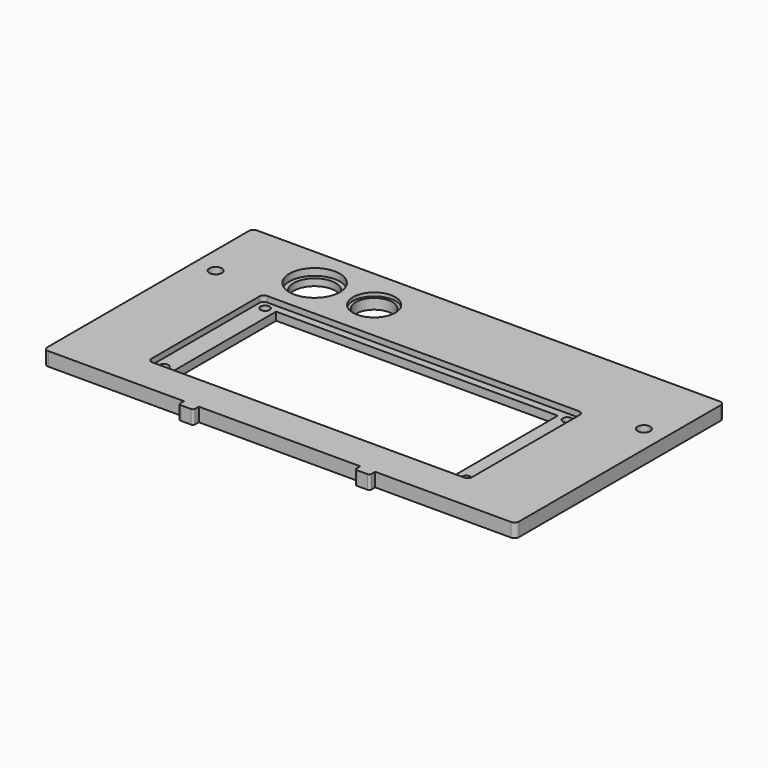
from build123d import *

# Parameters (mm, degrees)
F0_R     = 2.75
F0_R_2   = 11
F0_R_3   = 9.25
F1_DEPTH = 6
F0_R_4   = 2
F0_W     = 123
F0_H     = 56
F2_DEPTH = 3.5
F0_R_5   = 9.125
F3_DEPTH = 3
F0_R_6   = 8
F4_DEPTH = 4.5


with BuildPart() as f1:
    # F0 (on Top) → F1 (new body)
    with BuildSketch(Plane.XY):
        with BuildLine():
            Line((41.75, -57), (101, -57))
            ThreePointArc((101, -57), (102.414214, -56.414214), (103, -55))
            Line((103, -55), (103, 55))
            ThreePointArc((103, 55), (102.414214, 56.414214), (101, 57))
            Line((101, 57), (-101, 57))
            ThreePointArc((-101, 57), (-102.414214, 56.414214), (-103, 55))
            Line((-103, 55), (-103, -55))
            ThreePointArc((-103, -55), (-102.414214, -56.414214), (-101, -57))
            Line((-101, -57), (-41.75, -57))
            Line((-41.75, -57), (-35.25, -57))
            Line((-35.25, -57), (0, -57))
            Line((0, -57), (35.25, -57))
            Line((35.25, -57), (41.75, -57))
        make_face()
        with BuildLine():
            ThreePointArc((70, -39.375), (69.414214, -40.789214), (68, -41.375))
            Line((68, -41.375), (-68, -41.375))
            ThreePointArc((-68, -41.375), (-69.414214, -40.789214), (-70, -39.375))
            Line((-70, -39.375), (-70, 19.375))
            ThreePointArc((-70, 19.375), (-69.414214, 20.789214), (-68, 21.375))
            Line((-68, 21.375), (68, 21.375))
            ThreePointArc((68, 21.375), (69.414214, 20.789214), (70, 19.375))
            Line((70, 19.375), (70, -39.375))
        make_face(mode=Mode.SUBTRACT)
        with Locations((-93.5, 25)):
            Circle(F0_R, mode=Mode.SUBTRACT)
        with Locations((-61.5, 39)):
            Circle(F0_R_2, mode=Mode.SUBTRACT)
        with Locations((-35.5, 39)):
            Circle(F0_R_3, mode=Mode.SUBTRACT)
        with Locations((93.5, 25)):
            Circle(F0_R, mode=Mode.SUBTRACT)
        with BuildLine():
            Line((-35.25, -59), (-35.25, -57))
            Line((-35.25, -57), (-41.75, -57))
            Line((-41.75, -57), (-41.75, -59))
            ThreePointArc((-41.75, -59), (-41.457107, -59.707107), (-40.75, -60))
            Line((-40.75, -60), (-36.25, -60))
            ThreePointArc((-36.25, -60), (-35.542893, -59.707107), (-35.25, -59))
        make_face()
        with BuildLine():
            Line((41.75, -59), (41.75, -57))
            Line((41.75, -57), (35.25, -57))
            Line((35.25, -57), (35.25, -59))
            ThreePointArc((35.25, -59), (35.542893, -59.707107), (36.25, -60))
            Line((36.25, -60), (40.75, -60))
            ThreePointArc((40.75, -60), (41.457107, -59.707107), (41.75, -59))
        make_face()
    extrude(amount=F1_DEPTH)

    # F0 (on Top) → F2 (join)
    with BuildSketch(Plane.XY):
        with BuildLine():
            Line((-68, -41.375), (68, -41.375))
            ThreePointArc((68, -41.375), (69.414214, -40.789214), (70, -39.375))
            Line((70, -39.375), (70, 19.375))
            ThreePointArc((70, 19.375), (69.414214, 20.789214), (68, 21.375))
            Line((68, 21.375), (-68, 21.375))
            ThreePointArc((-68, 21.375), (-69.414214, 20.789214), (-70, 19.375))
            Line((-70, 19.375), (-70, -39.375))
            ThreePointArc((-70, -39.375), (-69.414214, -40.789214), (-68, -41.375))
        make_face()
        with Locations((-66, -37.625)):
            Circle(F0_R_4, mode=Mode.SUBTRACT)
        with Locations((0, -10)):
            Rectangle(F0_W, F0_H, mode=Mode.SUBTRACT)
        with Locations((66, -37.625)):
            Circle(F0_R_4, mode=Mode.SUBTRACT)
        with Locations((-66, 17.625)):
            Circle(F0_R_4, mode=Mode.SUBTRACT)
        with Locations((66, 17.625)):
            Circle(F0_R_4, mode=Mode.SUBTRACT)
    extrude(amount=F2_DEPTH)

    # F0 (on Top) → F3 (join)
    with BuildSketch(Plane.XY):
        with Locations((-61.5, 39)):
            Circle(F0_R_2)
        with Locations((-61.5, 39)):
            Circle(F0_R_5, mode=Mode.SUBTRACT)
    extrude(amount=F3_DEPTH)

    # F0 (on Top) → F4 (join)
    with BuildSketch(Plane.XY):
        with Locations((-35.5, 39)):
            Circle(F0_R_3)
        with Locations((-35.5, 39)):
            Circle(F0_R_6, mode=Mode.SUBTRACT)
    extrude(amount=F4_DEPTH)


solid = f1.part
